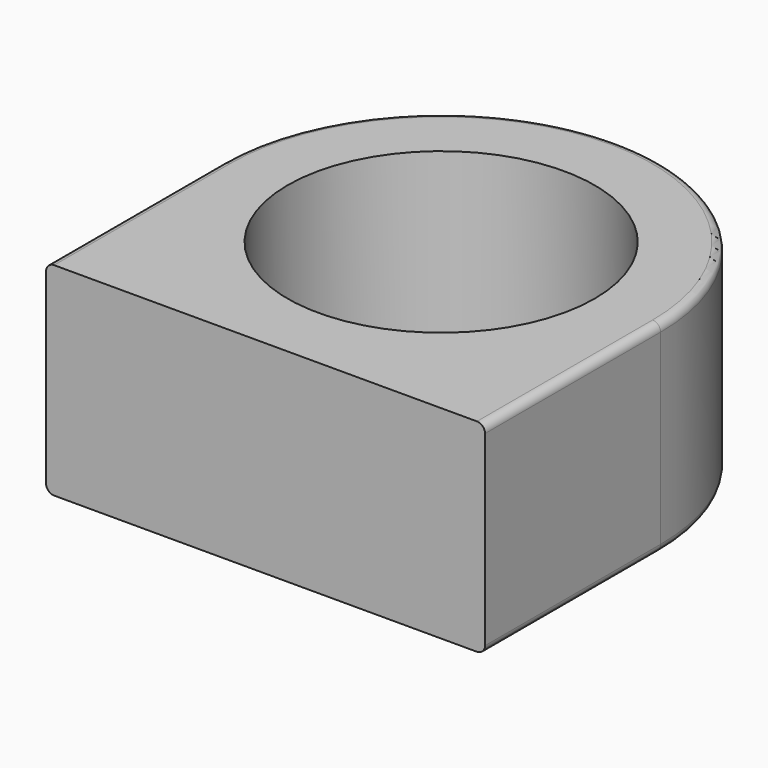
from build123d import *

# Parameters (mm, degrees)
F1_DEPTH = 19.9644
F2_R     = 0.79375


with BuildPart() as f1:
    # F0 (on Top) → F1 (new body)
    with BuildSketch(Plane.XY):
        with BuildLine():
            Line((21.6, 0), (15.113, 0))
            ThreePointArc((15.113, 0), (0, -15.113), (-15.113, 0))
            Line((-15.113, 0), (-21.6, 0))
            ThreePointArc((-21.6, 0), (-15.2735064736, -15.2735064736), (0, -21.6))
            ThreePointArc((0, -21.6), (15.2735064736, -15.2735064736), (21.6, 0))
        make_face()
        with BuildLine():
            ThreePointArc((-15.113, 0), (0, 15.113), (15.113, 0))
            Line((15.113, 0), (21.6, 0))
            ThreePointArc((21.6, 0), (0, 21.6), (-21.6, 0))
            Line((-21.6, 0), (-15.113, 0))
        make_face()
        with BuildLine():
            Line((21.6, -21.6), (21.6, 0))
            ThreePointArc((21.6, 0), (15.2735064736, -15.2735064736), (0, -21.6))
            Line((0, -21.6), (21.6, -21.6))
        make_face()
        with BuildLine():
            ThreePointArc((0, -21.6), (-15.2735064736, -15.2735064736), (-21.6, 0))
            Line((-21.6, 0), (-21.6, -21.6))
            Line((-21.6, -21.6), (0, -21.6))
        make_face()
    extrude(amount=F1_DEPTH)

    # F2
    f2_edges = [f1.edges().sort_by_distance(p)[0] for p in [
        (0, 21.6, 0),
        (0, 21.6, 19.9644),
    ]]
    fillet(f2_edges, radius=F2_R)


solid = f1.part
